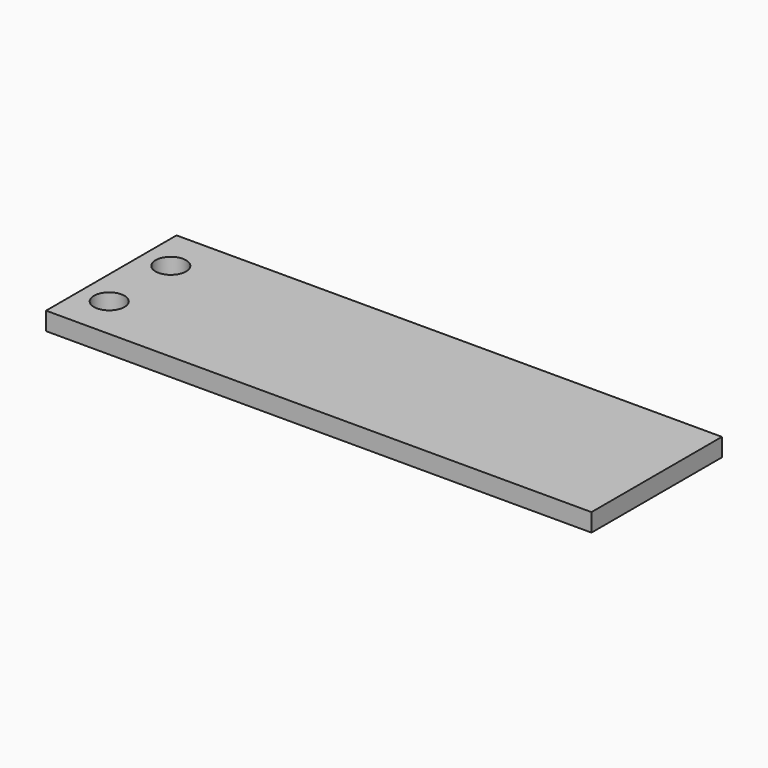
from build123d import *

# Parameters (mm, degrees)
F0_W     = 36.068
F0_H     = 4.0005
F1_DEPTH = 120.65
F4_D     = 6.7564


with BuildPart() as f1:
    # F0 (on Right) → F1 (new body)
    with BuildSketch(Plane.YZ):
        with Locations((18.034, 2.00025)):
            Rectangle(F0_W, F0_H)
    extrude(amount=-F1_DEPTH)

    # F4 (through all)
    with Locations(Plane.XY.offset(4.0005)):
        with Locations((-114.3, 26.543), (-114.3, 9.525)):
            Hole(F4_D / 2)


solid = f1.part
